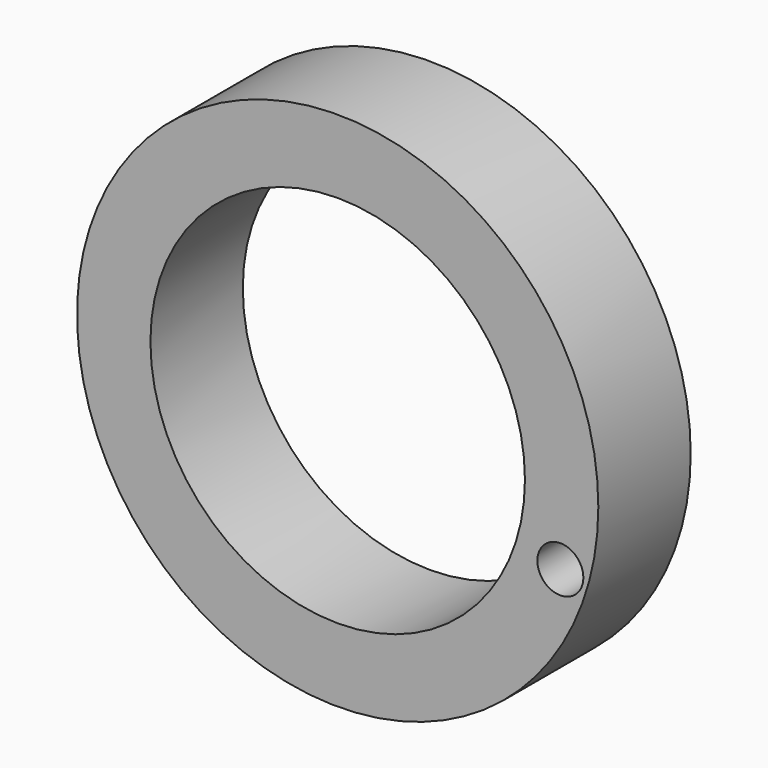
from build123d import *

# Parameters (mm, degrees)
F0_R     = 16.702869
F0_R_2   = 1.473353
F0_R_3   = 12
F1_DEPTH = 3.7


with BuildPart() as f1:
    # F0 (on Front) → F1 (new body, symmetric)
    with BuildSketch(Plane.XZ):
        Circle(F0_R)
        with Locations((14.269849, -4.308099)):
            Circle(F0_R_2, mode=Mode.SUBTRACT)
        Circle(F0_R_3, mode=Mode.SUBTRACT)
    extrude(amount=F1_DEPTH, both=True)


solid = f1.part
